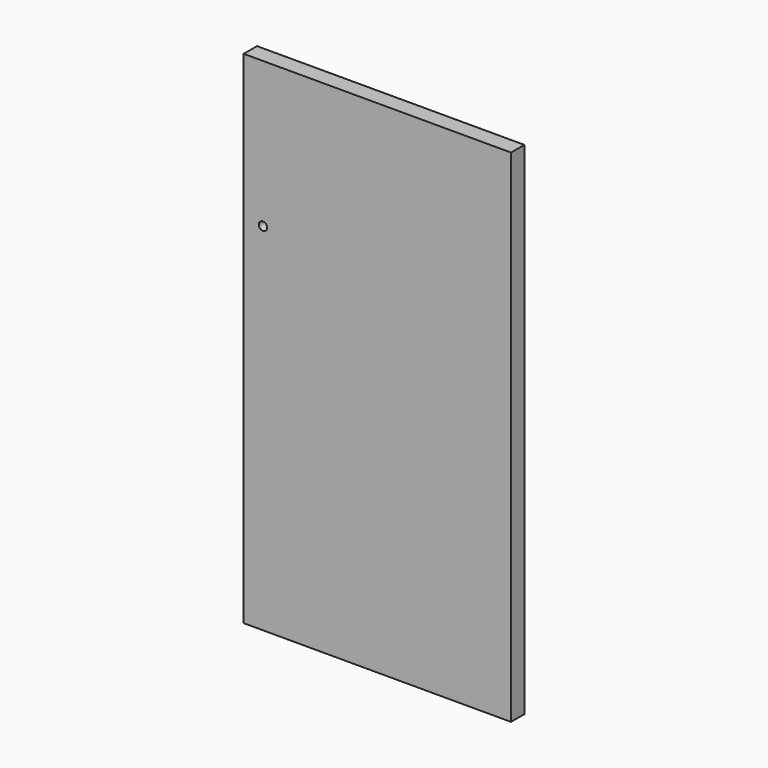
from build123d import *

# Parameters (mm, degrees)
F0_W     = 160
F0_H     = 300
F1_DEPTH = 10
F3_D     = 5
F3_DEPTH = 10
F3_TIP   = 1.5021515476
F5_D     = 5


with BuildPart() as f1:
    # F0 (on Front) → F1 (new body)
    with BuildSketch(Plane.XZ):
        with Locations((25.1540820301, 94.790057838)):
            Rectangle(F0_W, F0_H)
    extrude(amount=F1_DEPTH)

    # F3
    with Locations(Plane(origin=(0, 0, -55.209942162), x_dir=(1, 0, 0), z_dir=(0, 0, -1))):
        with Locations((-1.1459179699, 5), (51.4540820301, 5)):
            Hole(F3_D / 2, depth=F3_DEPTH)
            with Locations((0, 0, -(F3_DEPTH + F3_TIP / 2))):  # 118° drill point
                Cone(0, F3_D / 2, F3_TIP, mode=Mode.SUBTRACT)

    # F5 (through all)
    with Locations(Plane.XZ.offset(10)):
        with Locations((-43.2748445049, 157.7490222116)):
            Hole(F5_D / 2)


solid = f1.part
